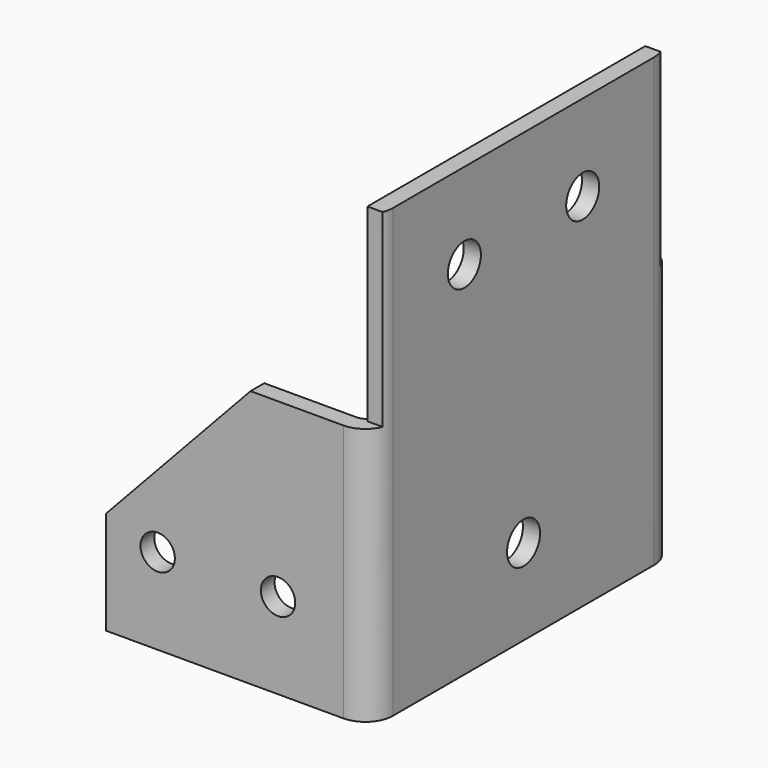
from build123d import *

# Parameters (mm, degrees)
F1_DEPTH  = 130
F4_DEPTH  = 121
F6_DEPTH  = 116
F8_W      = 5
F8_H      = 55
F9_DEPTH  = 37.8
F10_W     = 5
F10_H     = 55
F11_DEPTH = 63
F12_R     = 5
F13_DEPTH = 135
F14_R     = 6
F15_DEPTH = 25


with BuildPart() as f1:
    # F0 (on Top) → F1 (new body)
    with BuildSketch(Plane.XY):
        with BuildLine():
            Line((69, 0), (0, 0))
            Line((0, 0), (0, -5))
            Line((0, -5), (69, -5))
            ThreePointArc((69, -5), (71.1213203436, -5.8786796564), (72, -8))
            Line((72, -8), (72, -103))
            ThreePointArc((72, -103), (71.1213203436, -105.1213203436), (69, -106))
            Line((69, -106), (0, -106))
            Line((0, -106), (0, -111))
            Line((0, -111), (69, -111))
            ThreePointArc((69, -111), (74.6568542495, -108.6568542495), (77, -103))
            Line((77, -103), (77, -8))
            ThreePointArc((77, -8), (74.6568542495, -2.3431457505), (69, 0))
        make_face()
    extrude(amount=F1_DEPTH)

    # F3 (on offset) → F4 (cut)
    with BuildSketch(Plane(origin=(0, 0, 0), x_dir=(-1, 0, 0), z_dir=(0, 1, 0))):
        Polygon((0, 75), (0, 130), (-72, 130), (-72, 75), (-42, 75), align=None)
    extrude(amount=-F4_DEPTH, mode=Mode.SUBTRACT)

    # F5 (on offset) → F6 (cut)
    with BuildSketch(Plane(origin=(0, 0, 0), x_dir=(-1, 0, 0), z_dir=(0, 1, 0))):
        Polygon((0, 30), (0, 75), (-42, 75), align=None)
    extrude(amount=-F6_DEPTH, mode=Mode.SUBTRACT)

    # F8 (on offset) → F9 (cut)
    with BuildSketch(Plane.YZ.offset(77)):
        with Locations((-2.5, 102.5)):
            Rectangle(F8_W, F8_H)
    extrude(amount=-F9_DEPTH, mode=Mode.SUBTRACT)

    # F10 (on offset) → F11 (cut)
    with BuildSketch(Plane.YZ.offset(77)):
        with Locations((-108.5, 102.5)):
            Rectangle(F10_W, F10_H)
    extrude(amount=-F11_DEPTH, mode=Mode.SUBTRACT)

    # F12 (on offset) → F13 (cut)
    with BuildSketch(Plane(origin=(0, 0, 0), x_dir=(-1, 0, 0), z_dir=(0, 1, 0))):
        with Locations((-15, 25)):
            Circle(F12_R)
        with Locations((-50, 25)):
            Circle(F12_R)
    extrude(amount=-F13_DEPTH, mode=Mode.SUBTRACT)

    # F14 (on offset) → F15 (cut)
    with BuildSketch(Plane.YZ.offset(77)):
        with Locations((-55.5, 25)):
            Circle(F14_R)
        with Locations((-77, 105)):
            Circle(F14_R)
        with Locations((-34, 105)):
            Circle(F14_R)
    extrude(amount=-F15_DEPTH, mode=Mode.SUBTRACT)


solid = f1.part
